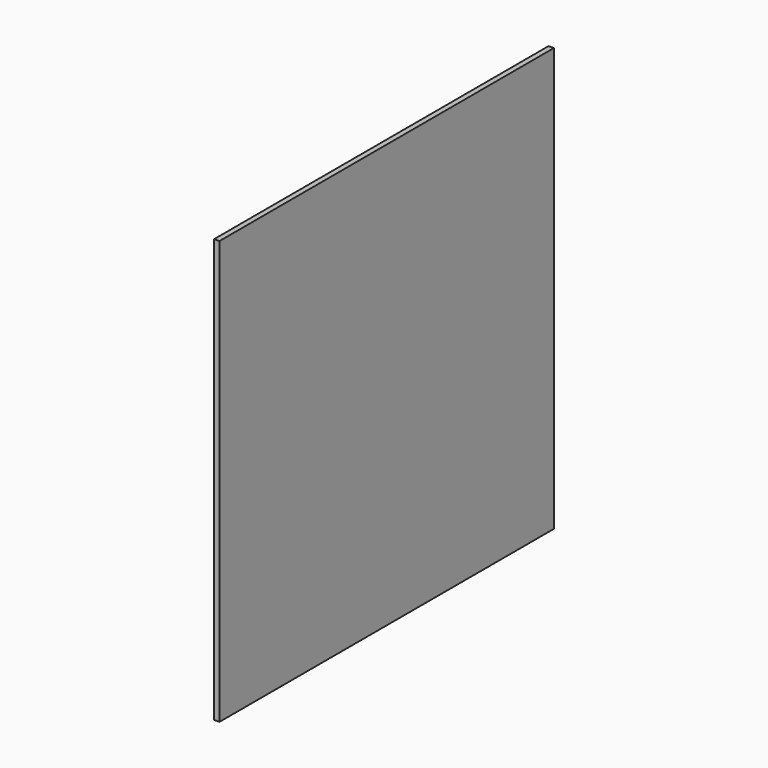
from build123d import *

# Parameters (mm, degrees)
BOX_W     = 6.35
BOX_H     = 501.65
BOX_DEPTH = 508


with BuildPart() as part:
    # Box → Box (new body)
    with BuildSketch(Plane.XY):
        with Locations((3.175, 250.825)):
            Rectangle(BOX_W, BOX_H)
    extrude(amount=BOX_DEPTH)


solid = part.part
